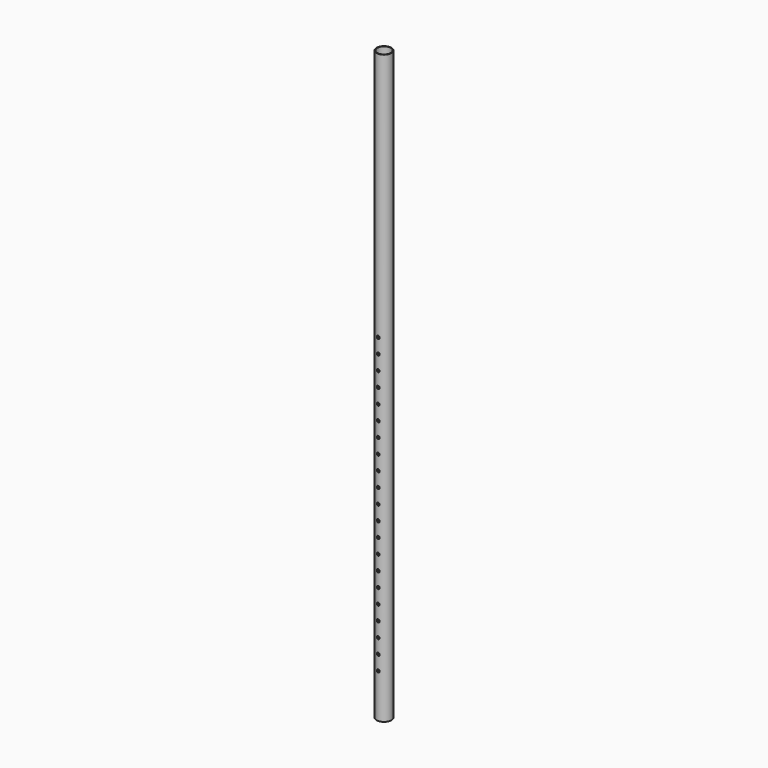
from build123d import *

# Parameters (mm, degrees)
F0_R     = 25
F0_R_2   = 23
F1_DEPTH = 2000
F3_R     = 5
F4_DEPTH = 90


with BuildPart() as f1:
    # F0 (on Top) → F1 (new body)
    with BuildSketch(Plane.XY):
        Circle(F0_R)
        Circle(F0_R_2, mode=Mode.SUBTRACT)
    extrude(amount=F1_DEPTH)

    # F3 (on offset) → F4 (cut)
    with BuildSketch(Plane.XZ.offset(50)):
        with Locations((0, 150)):
            Circle(F3_R)
        with Locations((0, 200)):
            Circle(F3_R)
        with Locations((0, 250)):
            Circle(F3_R)
        with Locations((0, 300)):
            Circle(F3_R)
        with Locations((0, 350)):
            Circle(F3_R)
        with Locations((0, 400)):
            Circle(F3_R)
        with Locations((0, 450)):
            Circle(F3_R)
        with Locations((0, 500)):
            Circle(F3_R)
        with Locations((0, 550)):
            Circle(F3_R)
        with Locations((0, 600)):
            Circle(F3_R)
        with Locations((0, 650)):
            Circle(F3_R)
        with Locations((0, 700)):
            Circle(F3_R)
        with Locations((0, 750)):
            Circle(F3_R)
        with Locations((0, 800)):
            Circle(F3_R)
        with Locations((0, 850)):
            Circle(F3_R)
        with Locations((0, 900)):
            Circle(F3_R)
        with Locations((0, 950)):
            Circle(F3_R)
        with Locations((0, 1000)):
            Circle(F3_R)
        with Locations((0, 1050)):
            Circle(F3_R)
        with Locations((0, 1100)):
            Circle(F3_R)
        with Locations((0, 1150)):
            Circle(F3_R)
    extrude(amount=-F4_DEPTH, mode=Mode.SUBTRACT)


solid = f1.part
